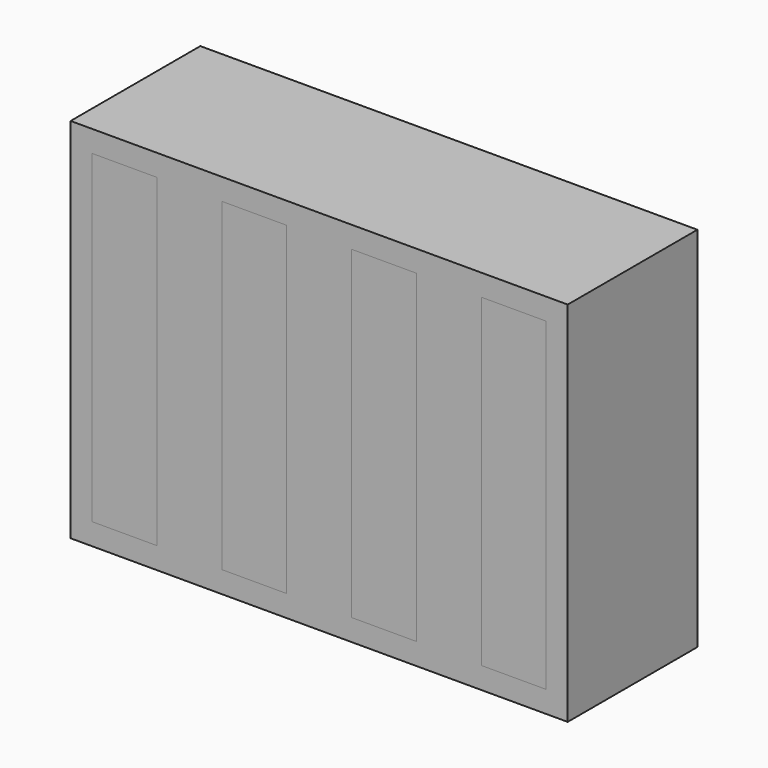
from build123d import *

# Parameters (mm, degrees)
F0_W     = 6
F0_H     = 30
F1_DEPTH = 2
F0_W_2   = 46
F0_H_2   = 34
F2_DEPTH = 15


with BuildPart() as f1:
    # F0 (on Front) → F1 (new body)
    with BuildSketch(Plane.XZ):
        with Locations((-136.269888, 40.610917)):
            Rectangle(F0_W, F0_H)
        with Locations((-124.269888, 40.610917)):
            Rectangle(F0_W, F0_H)
        with Locations((-112.269888, 40.610917)):
            Rectangle(F0_W, F0_H)
        with Locations((-100.269888, 40.610917)):
            Rectangle(F0_W, F0_H)
    extrude(amount=-F1_DEPTH)


with BuildPart() as f2:
    # F0 (on Front) → F2 (new body)
    with BuildSketch(Plane.XZ):
        with Locations((-118.269888, 40.610917)):
            Rectangle(F0_W_2, F0_H_2)
        with Locations((-136.269888, 40.610917)):
            Rectangle(F0_W, F0_H, mode=Mode.SUBTRACT)
        with Locations((-124.269888, 40.610917)):
            Rectangle(F0_W, F0_H, mode=Mode.SUBTRACT)
        with Locations((-112.269888, 40.610917)):
            Rectangle(F0_W, F0_H, mode=Mode.SUBTRACT)
        with Locations((-100.269888, 40.610917)):
            Rectangle(F0_W, F0_H, mode=Mode.SUBTRACT)
    extrude(amount=-F2_DEPTH)


solid = Compound([f1.part, f2.part])
